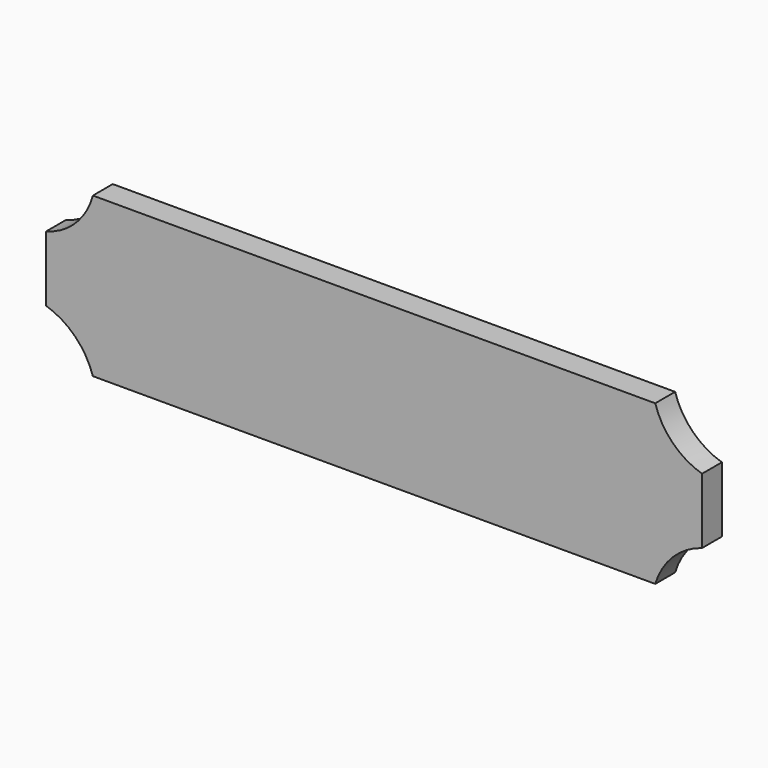
from build123d import *

# Parameters (mm, degrees)
F1_DEPTH = 3.175


with BuildPart() as f1:
    # F0 (on Front) → F1 (new body, symmetric)
    with BuildSketch(Plane.XZ):
        with BuildLine():
            Line((71.856409, 20.331344), (-71.865915, 20.331344))
            ThreePointArc((-71.865915, 20.331344), (-76.24445, 12.751041), (-83.824753, 8.372506))
            Line((-83.824753, 8.372506), (-83.824753, -8.349818))
            ThreePointArc((-83.824753, -8.349818), (-76.385163, -12.869065), (-71.865915, -20.308656))
            Line((-71.865915, -20.308656), (71.856409, -20.308656))
            ThreePointArc((71.856409, -20.308656), (76.332773, -12.826182), (83.815247, -8.349818))
            Line((83.815247, -8.349818), (83.815247, 8.372506))
            ThreePointArc((83.815247, 8.372506), (76.335646, 12.851744), (71.856409, 20.331344))
        make_face()
    extrude(amount=F1_DEPTH, both=True)


solid = f1.part
